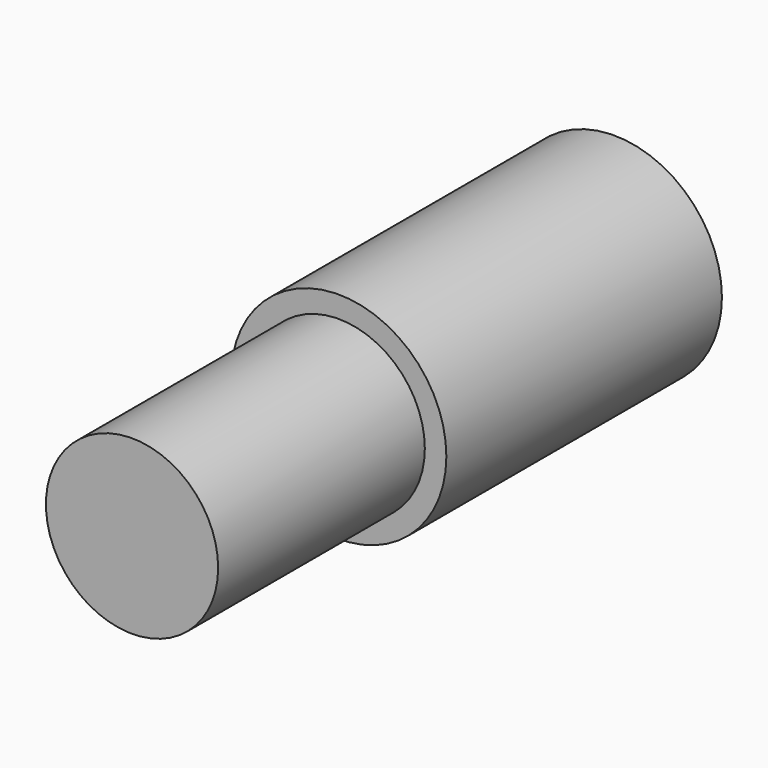
from build123d import *

# Parameters (mm, degrees)
F0_R     = 7.9375
F1_DEPTH = 25.4
F2_R     = 6.35
F3_DEPTH = 19.05


with BuildPart() as f1:
    # F0 (on Front) → F1 (new body)
    with BuildSketch(Plane.XZ):
        Circle(F0_R)
    extrude(amount=-F1_DEPTH)


with BuildPart() as f3:
    # F2 (on face) → F3 (new body)
    with BuildSketch(Plane.XZ):
        Circle(F2_R)
    extrude(amount=F3_DEPTH)


solid = Compound([f1.part, f3.part])
